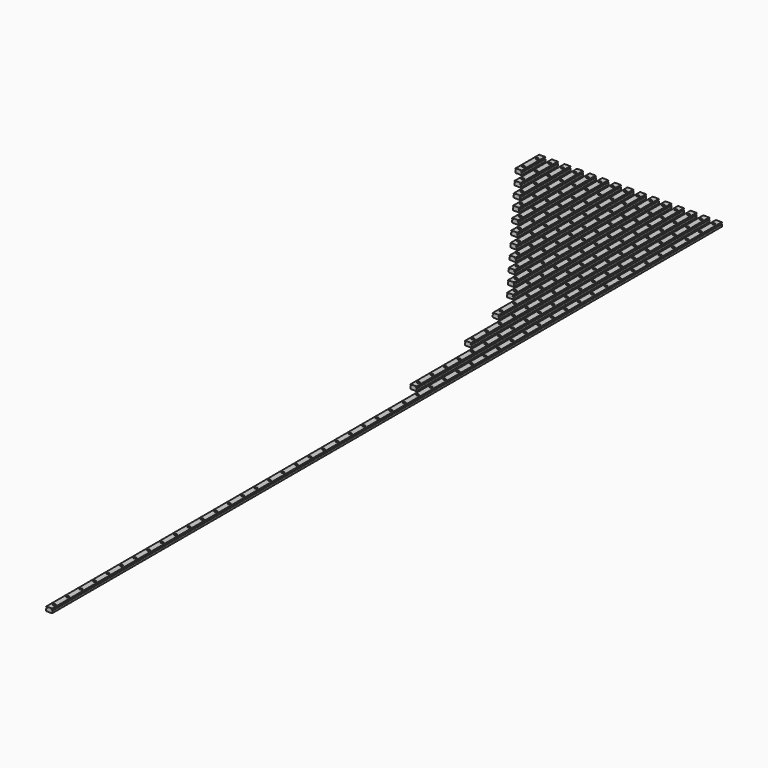
from build123d import *

# Parameters (mm, degrees)
F1_DEPTH           = 70
F2_DEPTH           = 110
F3_DEPTH           = 150
F4_DEPTH           = 190
F5_DEPTH           = 230
F6_DEPTH           = 270
F7_DEPTH           = 310
F8_DEPTH           = 350
F9_DEPTH           = 390
F10_DEPTH          = 430
F11_DEPTH          = 470
F12_DEPTH          = 550
F13_DEPTH          = 670
F14_DEPTH          = 870
F15_DEPTH          = 1990
F17_D              = 3.5
F17_CBORE_D        = 6
F17_CBORE_DEPTH    = 4.5
F17_2_D            = 3.5
F17_2_CBORE_D      = 6
F17_2_CBORE_DEPTH  = 4.5
F17_3_D            = 3.5
F17_3_CBORE_D      = 6
F17_3_CBORE_DEPTH  = 4.5
F17_4_D            = 3.5
F17_4_CBORE_D      = 6
F17_4_CBORE_DEPTH  = 4.5
F17_5_D            = 3.5
F17_5_CBORE_D      = 6
F17_5_CBORE_DEPTH  = 4.5
F17_6_D            = 3.5
F17_6_CBORE_D      = 6
F17_6_CBORE_DEPTH  = 4.5
F17_7_D            = 3.5
F17_7_CBORE_D      = 6
F17_7_CBORE_DEPTH  = 4.5
F17_8_D            = 3.5
F17_8_CBORE_D      = 6
F17_8_CBORE_DEPTH  = 4.5
F17_9_D            = 3.5
F17_9_CBORE_D      = 6
F17_9_CBORE_DEPTH  = 4.5
F17_10_D           = 3.5
F17_10_CBORE_D     = 6
F17_10_CBORE_DEPTH = 4.5
F17_11_D           = 3.5
F17_11_CBORE_D     = 6
F17_11_CBORE_DEPTH = 4.5
F18_D              = 3.5
F18_CBORE_D        = 6
F18_CBORE_DEPTH    = 4.5
F18_2_D            = 3.5
F18_2_CBORE_D      = 6
F18_2_CBORE_DEPTH  = 4.5
F18_3_D            = 3.5
F18_3_CBORE_D      = 6
F18_3_CBORE_DEPTH  = 4.5
F19_D              = 3.5
F19_CBORE_D        = 6
F19_CBORE_DEPTH    = 4.5


with BuildPart() as f1:
    # F0 (on Front) → F1 (new body)
    with BuildSketch(Plane.XZ):
        with BuildLine():
            Line((-1.510102, -5), (6.792893, -5))
            Line((6.792893, -5), (7.5, -4.292893))
            Line((7.5, -4.292893), (7.5, 0.585786))
            ThreePointArc((7.5, 0.585786), (6.978027, 0.902015), (6.625227, 1.4))
            Line((6.625227, 1.4), (5.7, 1.4))
            Line((5.7, 1.4), (5.7, 2.6))
            Line((5.7, 2.6), (6.625227, 2.6))
            ThreePointArc((6.625227, 2.6), (6.978027, 3.097985), (7.5, 3.414214))
            Line((7.5, 3.414214), (7.5, 4.505025))
            Line((7.5, 4.505025), (7.005025, 5))
            Line((7.005025, 5), (-7.005025, 5))
            Line((-7.005025, 5), (-7.5, 4.505025))
            Line((-7.5, 4.505025), (-7.5, 3.414214))
            ThreePointArc((-7.5, 3.414214), (-6.978027, 3.097985), (-6.625227, 2.6))
            Line((-6.625227, 2.6), (-5.7, 2.6))
            Line((-5.7, 2.6), (-5.7, 1.4))
            Line((-5.7, 1.4), (-6.625227, 1.4))
            ThreePointArc((-6.625227, 1.4), (-6.978027, 0.902015), (-7.5, 0.585786))
            Line((-7.5, 0.585786), (-7.5, -4.292893))
            Line((-7.5, -4.292893), (-6.792893, -5))
            Line((-6.792893, -5), (-2.489898, -5))
            ThreePointArc((-2.489898, -5), (-2, -4.7), (-1.510102, -5))
        make_face()
    extrude(amount=F1_DEPTH)

    # F17 (through all)
    with Locations(Plane.XY.offset(5)):
        with Locations((300, -15), (300, -375), (300, -175), (300, -215), (300, -335), (300, -55), (300, -95), (300, -255), (300, -455), (300, -295), (300, -415), (300, -135), (270, -95), (270, -15), (270, -215), (270, -55), (270, -375), (270, -415), (270, -295), (270, -175), (270, -135), (270, -335), (270, -255), (240, -95), (240, -55), (240, -335), (240, -215), (240, -175), (240, -375), (240, -295), (240, -15), (240, -135), (240, -255), (210, -215), (210, -335), (210, -15), (210, -175), (210, -55), (210, -295), (210, -135), (210, -255), (210, -95), (180, -135), (180, -215), (180, -175), (180, -255), (180, -295), (180, -15), (180, -55), (180, -95), (150, -215), (150, -135), (150, -175), (150, -95), (150, -255), (150, -15), (150, -55), (90, -15), (90, -55), (90, -95), (90, -135), (90, -175), (120, -55), (120, -175), (120, -95), (120, -15), (120, -215), (120, -135), (60, -95), (60, -135), (30, -95), (30, -15), (0, -15), (60, -15), (0, -55), (30, -55), (60, -55)):
            CounterBoreHole(F17_D / 2, F17_CBORE_D / 2, F17_CBORE_DEPTH)


with BuildPart() as f2:
    # F0 (on Front) → F2 (new body)
    with BuildSketch(Plane.XZ):
        with BuildLine():
            Line((37.5, 4.505025), (37.005025, 5))
            Line((37.005025, 5), (22.994975, 5))
            Line((22.994975, 5), (22.5, 4.505025))
            Line((22.5, 4.505025), (22.5, 3.414214))
            ThreePointArc((22.5, 3.414214), (23.021973, 3.097985), (23.374773, 2.6))
            Line((23.374773, 2.6), (24.3, 2.6))
            Line((24.3, 2.6), (24.3, 1.4))
            Line((24.3, 1.4), (23.374773, 1.4))
            ThreePointArc((23.374773, 1.4), (23.021973, 0.902015), (22.5, 0.585786))
            Line((22.5, 0.585786), (22.5, -4.292893))
            Line((22.5, -4.292893), (23.207107, -5))
            Line((23.207107, -5), (27.510102, -5))
            ThreePointArc((27.510102, -5), (28, -4.7), (28.489898, -5))
            Line((28.489898, -5), (36.792893, -5))
            Line((36.792893, -5), (37.5, -4.292893))
            Line((37.5, -4.292893), (37.5, 0.585786))
            ThreePointArc((37.5, 0.585786), (36.978027, 0.902015), (36.625227, 1.4))
            Line((36.625227, 1.4), (35.7, 1.4))
            Line((35.7, 1.4), (35.7, 2.6))
            Line((35.7, 2.6), (36.625227, 2.6))
            ThreePointArc((36.625227, 2.6), (36.978027, 3.097985), (37.5, 3.414214))
            Line((37.5, 3.414214), (37.5, 4.505025))
        make_face()
    extrude(amount=F2_DEPTH)

    # F17#2 (through all)
    with Locations(Plane.XY.offset(5)):
        with Locations((300, -15), (300, -375), (300, -175), (300, -215), (300, -335), (300, -55), (300, -95), (300, -255), (300, -455), (300, -295), (300, -415), (300, -135), (270, -95), (270, -15), (270, -215), (270, -55), (270, -375), (270, -415), (270, -295), (270, -175), (270, -135), (270, -335), (270, -255), (240, -95), (240, -55), (240, -335), (240, -215), (240, -175), (240, -375), (240, -295), (240, -15), (240, -135), (240, -255), (210, -215), (210, -335), (210, -15), (210, -175), (210, -55), (210, -295), (210, -135), (210, -255), (210, -95), (180, -135), (180, -215), (180, -175), (180, -255), (180, -295), (180, -15), (180, -55), (180, -95), (150, -215), (150, -135), (150, -175), (150, -95), (150, -255), (150, -15), (150, -55), (90, -15), (90, -55), (90, -95), (90, -135), (90, -175), (120, -55), (120, -175), (120, -95), (120, -15), (120, -215), (120, -135), (60, -95), (60, -135), (30, -95), (30, -15), (0, -15), (60, -15), (0, -55), (30, -55), (60, -55)):
            CounterBoreHole(F17_2_D / 2, F17_2_CBORE_D / 2, F17_2_CBORE_DEPTH)


with BuildPart() as f3:
    # F0 (on Front) → F3 (new body)
    with BuildSketch(Plane.XZ):
        with BuildLine():
            Line((67.5, 4.505025), (67.005025, 5))
            Line((67.005025, 5), (52.994975, 5))
            Line((52.994975, 5), (52.5, 4.505025))
            Line((52.5, 4.505025), (52.5, 3.414214))
            ThreePointArc((52.5, 3.414214), (53.021973, 3.097985), (53.374773, 2.6))
            Line((53.374773, 2.6), (54.3, 2.6))
            Line((54.3, 2.6), (54.3, 1.4))
            Line((54.3, 1.4), (53.374773, 1.4))
            ThreePointArc((53.374773, 1.4), (53.021973, 0.902015), (52.5, 0.585786))
            Line((52.5, 0.585786), (52.5, -4.292893))
            Line((52.5, -4.292893), (53.207107, -5))
            Line((53.207107, -5), (57.510102, -5))
            ThreePointArc((57.510102, -5), (58, -4.7), (58.489898, -5))
            Line((58.489898, -5), (66.792893, -5))
            Line((66.792893, -5), (67.5, -4.292893))
            Line((67.5, -4.292893), (67.5, 0.585786))
            ThreePointArc((67.5, 0.585786), (66.978027, 0.902015), (66.625227, 1.4))
            Line((66.625227, 1.4), (65.7, 1.4))
            Line((65.7, 1.4), (65.7, 2.6))
            Line((65.7, 2.6), (66.625227, 2.6))
            ThreePointArc((66.625227, 2.6), (66.978027, 3.097985), (67.5, 3.414214))
            Line((67.5, 3.414214), (67.5, 4.505025))
        make_face()
    extrude(amount=F3_DEPTH)

    # F17#3 (through all)
    with Locations(Plane.XY.offset(5)):
        with Locations((300, -15), (300, -375), (300, -175), (300, -215), (300, -335), (300, -55), (300, -95), (300, -255), (300, -455), (300, -295), (300, -415), (300, -135), (270, -95), (270, -15), (270, -215), (270, -55), (270, -375), (270, -415), (270, -295), (270, -175), (270, -135), (270, -335), (270, -255), (240, -95), (240, -55), (240, -335), (240, -215), (240, -175), (240, -375), (240, -295), (240, -15), (240, -135), (240, -255), (210, -215), (210, -335), (210, -15), (210, -175), (210, -55), (210, -295), (210, -135), (210, -255), (210, -95), (180, -135), (180, -215), (180, -175), (180, -255), (180, -295), (180, -15), (180, -55), (180, -95), (150, -215), (150, -135), (150, -175), (150, -95), (150, -255), (150, -15), (150, -55), (90, -15), (90, -55), (90, -95), (90, -135), (90, -175), (120, -55), (120, -175), (120, -95), (120, -15), (120, -215), (120, -135), (60, -95), (60, -135), (30, -95), (30, -15), (0, -15), (60, -15), (0, -55), (30, -55), (60, -55)):
            CounterBoreHole(F17_3_D / 2, F17_3_CBORE_D / 2, F17_3_CBORE_DEPTH)


with BuildPart() as f4:
    # F0 (on Front) → F4 (new body)
    with BuildSketch(Plane.XZ):
        with BuildLine():
            Line((97.5, 4.505025), (97.005025, 5))
            Line((97.005025, 5), (82.994975, 5))
            Line((82.994975, 5), (82.5, 4.505025))
            Line((82.5, 4.505025), (82.5, 3.414214))
            ThreePointArc((82.5, 3.414214), (83.021973, 3.097985), (83.374773, 2.6))
            Line((83.374773, 2.6), (84.3, 2.6))
            Line((84.3, 2.6), (84.3, 1.4))
            Line((84.3, 1.4), (83.374773, 1.4))
            ThreePointArc((83.374773, 1.4), (83.021973, 0.902015), (82.5, 0.585786))
            Line((82.5, 0.585786), (82.5, -4.292893))
            Line((82.5, -4.292893), (83.207107, -5))
            Line((83.207107, -5), (87.510102, -5))
            ThreePointArc((87.510102, -5), (88, -4.7), (88.489898, -5))
            Line((88.489898, -5), (96.792893, -5))
            Line((96.792893, -5), (97.5, -4.292893))
            Line((97.5, -4.292893), (97.5, 0.585786))
            ThreePointArc((97.5, 0.585786), (96.978027, 0.902015), (96.625227, 1.4))
            Line((96.625227, 1.4), (95.7, 1.4))
            Line((95.7, 1.4), (95.7, 2.6))
            Line((95.7, 2.6), (96.625227, 2.6))
            ThreePointArc((96.625227, 2.6), (96.978027, 3.097985), (97.5, 3.414214))
            Line((97.5, 3.414214), (97.5, 4.505025))
        make_face()
    extrude(amount=F4_DEPTH)

    # F17#4 (through all)
    with Locations(Plane.XY.offset(5)):
        with Locations((300, -15), (300, -375), (300, -175), (300, -215), (300, -335), (300, -55), (300, -95), (300, -255), (300, -455), (300, -295), (300, -415), (300, -135), (270, -95), (270, -15), (270, -215), (270, -55), (270, -375), (270, -415), (270, -295), (270, -175), (270, -135), (270, -335), (270, -255), (240, -95), (240, -55), (240, -335), (240, -215), (240, -175), (240, -375), (240, -295), (240, -15), (240, -135), (240, -255), (210, -215), (210, -335), (210, -15), (210, -175), (210, -55), (210, -295), (210, -135), (210, -255), (210, -95), (180, -135), (180, -215), (180, -175), (180, -255), (180, -295), (180, -15), (180, -55), (180, -95), (150, -215), (150, -135), (150, -175), (150, -95), (150, -255), (150, -15), (150, -55), (90, -15), (90, -55), (90, -95), (90, -135), (90, -175), (120, -55), (120, -175), (120, -95), (120, -15), (120, -215), (120, -135), (60, -95), (60, -135), (30, -95), (30, -15), (0, -15), (60, -15), (0, -55), (30, -55), (60, -55)):
            CounterBoreHole(F17_4_D / 2, F17_4_CBORE_D / 2, F17_4_CBORE_DEPTH)


with BuildPart() as f5:
    # F0 (on Front) → F5 (new body)
    with BuildSketch(Plane.XZ):
        with BuildLine():
            Line((127.5, 4.505025), (127.005025, 5))
            Line((127.005025, 5), (112.994975, 5))
            Line((112.994975, 5), (112.5, 4.505025))
            Line((112.5, 4.505025), (112.5, 3.414214))
            ThreePointArc((112.5, 3.414214), (113.021973, 3.097985), (113.374773, 2.6))
            Line((113.374773, 2.6), (114.3, 2.6))
            Line((114.3, 2.6), (114.3, 1.4))
            Line((114.3, 1.4), (113.374773, 1.4))
            ThreePointArc((113.374773, 1.4), (113.021973, 0.902015), (112.5, 0.585786))
            Line((112.5, 0.585786), (112.5, -4.292893))
            Line((112.5, -4.292893), (113.207107, -5))
            Line((113.207107, -5), (117.510102, -5))
            ThreePointArc((117.510102, -5), (118, -4.7), (118.489898, -5))
            Line((118.489898, -5), (126.792893, -5))
            Line((126.792893, -5), (127.5, -4.292893))
            Line((127.5, -4.292893), (127.5, 0.585786))
            ThreePointArc((127.5, 0.585786), (126.978027, 0.902015), (126.625227, 1.4))
            Line((126.625227, 1.4), (125.7, 1.4))
            Line((125.7, 1.4), (125.7, 2.6))
            Line((125.7, 2.6), (126.625227, 2.6))
            ThreePointArc((126.625227, 2.6), (126.978027, 3.097985), (127.5, 3.414214))
            Line((127.5, 3.414214), (127.5, 4.505025))
        make_face()
    extrude(amount=F5_DEPTH)

    # F17#5 (through all)
    with Locations(Plane.XY.offset(5)):
        with Locations((300, -15), (300, -375), (300, -175), (300, -215), (300, -335), (300, -55), (300, -95), (300, -255), (300, -455), (300, -295), (300, -415), (300, -135), (270, -95), (270, -15), (270, -215), (270, -55), (270, -375), (270, -415), (270, -295), (270, -175), (270, -135), (270, -335), (270, -255), (240, -95), (240, -55), (240, -335), (240, -215), (240, -175), (240, -375), (240, -295), (240, -15), (240, -135), (240, -255), (210, -215), (210, -335), (210, -15), (210, -175), (210, -55), (210, -295), (210, -135), (210, -255), (210, -95), (180, -135), (180, -215), (180, -175), (180, -255), (180, -295), (180, -15), (180, -55), (180, -95), (150, -215), (150, -135), (150, -175), (150, -95), (150, -255), (150, -15), (150, -55), (90, -15), (90, -55), (90, -95), (90, -135), (90, -175), (120, -55), (120, -175), (120, -95), (120, -15), (120, -215), (120, -135), (60, -95), (60, -135), (30, -95), (30, -15), (0, -15), (60, -15), (0, -55), (30, -55), (60, -55)):
            CounterBoreHole(F17_5_D / 2, F17_5_CBORE_D / 2, F17_5_CBORE_DEPTH)


with BuildPart() as f6:
    # F0 (on Front) → F6 (new body)
    with BuildSketch(Plane.XZ):
        with BuildLine():
            Line((157.5, 4.505025), (157.005025, 5))
            Line((157.005025, 5), (142.994975, 5))
            Line((142.994975, 5), (142.5, 4.505025))
            Line((142.5, 4.505025), (142.5, 3.414214))
            ThreePointArc((142.5, 3.414214), (143.021973, 3.097985), (143.374773, 2.6))
            Line((143.374773, 2.6), (144.3, 2.6))
            Line((144.3, 2.6), (144.3, 1.4))
            Line((144.3, 1.4), (143.374773, 1.4))
            ThreePointArc((143.374773, 1.4), (143.021973, 0.902015), (142.5, 0.585786))
            Line((142.5, 0.585786), (142.5, -4.292893))
            Line((142.5, -4.292893), (143.207107, -5))
            Line((143.207107, -5), (147.510102, -5))
            ThreePointArc((147.510102, -5), (148, -4.7), (148.489898, -5))
            Line((148.489898, -5), (156.792893, -5))
            Line((156.792893, -5), (157.5, -4.292893))
            Line((157.5, -4.292893), (157.5, 0.585786))
            ThreePointArc((157.5, 0.585786), (156.978027, 0.902015), (156.625227, 1.4))
            Line((156.625227, 1.4), (155.7, 1.4))
            Line((155.7, 1.4), (155.7, 2.6))
            Line((155.7, 2.6), (156.625227, 2.6))
            ThreePointArc((156.625227, 2.6), (156.978027, 3.097985), (157.5, 3.414214))
            Line((157.5, 3.414214), (157.5, 4.505025))
        make_face()
    extrude(amount=F6_DEPTH)

    # F17#6 (through all)
    with Locations(Plane.XY.offset(5)):
        with Locations((300, -15), (300, -375), (300, -175), (300, -215), (300, -335), (300, -55), (300, -95), (300, -255), (300, -455), (300, -295), (300, -415), (300, -135), (270, -95), (270, -15), (270, -215), (270, -55), (270, -375), (270, -415), (270, -295), (270, -175), (270, -135), (270, -335), (270, -255), (240, -95), (240, -55), (240, -335), (240, -215), (240, -175), (240, -375), (240, -295), (240, -15), (240, -135), (240, -255), (210, -215), (210, -335), (210, -15), (210, -175), (210, -55), (210, -295), (210, -135), (210, -255), (210, -95), (180, -135), (180, -215), (180, -175), (180, -255), (180, -295), (180, -15), (180, -55), (180, -95), (150, -215), (150, -135), (150, -175), (150, -95), (150, -255), (150, -15), (150, -55), (90, -15), (90, -55), (90, -95), (90, -135), (90, -175), (120, -55), (120, -175), (120, -95), (120, -15), (120, -215), (120, -135), (60, -95), (60, -135), (30, -95), (30, -15), (0, -15), (60, -15), (0, -55), (30, -55), (60, -55)):
            CounterBoreHole(F17_6_D / 2, F17_6_CBORE_D / 2, F17_6_CBORE_DEPTH)


with BuildPart() as f7:
    # F0 (on Front) → F7 (new body)
    with BuildSketch(Plane.XZ):
        with BuildLine():
            Line((187.5, 4.505025), (187.005025, 5))
            Line((187.005025, 5), (172.994975, 5))
            Line((172.994975, 5), (172.5, 4.505025))
            Line((172.5, 4.505025), (172.5, 3.414214))
            ThreePointArc((172.5, 3.414214), (173.021973, 3.097985), (173.374773, 2.6))
            Line((173.374773, 2.6), (174.3, 2.6))
            Line((174.3, 2.6), (174.3, 1.4))
            Line((174.3, 1.4), (173.374773, 1.4))
            ThreePointArc((173.374773, 1.4), (173.021973, 0.902015), (172.5, 0.585786))
            Line((172.5, 0.585786), (172.5, -4.292893))
            Line((172.5, -4.292893), (173.207107, -5))
            Line((173.207107, -5), (177.510102, -5))
            ThreePointArc((177.510102, -5), (178, -4.7), (178.489898, -5))
            Line((178.489898, -5), (186.792893, -5))
            Line((186.792893, -5), (187.5, -4.292893))
            Line((187.5, -4.292893), (187.5, 0.585786))
            ThreePointArc((187.5, 0.585786), (186.978027, 0.902015), (186.625227, 1.4))
            Line((186.625227, 1.4), (185.7, 1.4))
            Line((185.7, 1.4), (185.7, 2.6))
            Line((185.7, 2.6), (186.625227, 2.6))
            ThreePointArc((186.625227, 2.6), (186.978027, 3.097985), (187.5, 3.414214))
            Line((187.5, 3.414214), (187.5, 4.505025))
        make_face()
    extrude(amount=F7_DEPTH)

    # F17#7 (through all)
    with Locations(Plane.XY.offset(5)):
        with Locations((300, -15), (300, -375), (300, -175), (300, -215), (300, -335), (300, -55), (300, -95), (300, -255), (300, -455), (300, -295), (300, -415), (300, -135), (270, -95), (270, -15), (270, -215), (270, -55), (270, -375), (270, -415), (270, -295), (270, -175), (270, -135), (270, -335), (270, -255), (240, -95), (240, -55), (240, -335), (240, -215), (240, -175), (240, -375), (240, -295), (240, -15), (240, -135), (240, -255), (210, -215), (210, -335), (210, -15), (210, -175), (210, -55), (210, -295), (210, -135), (210, -255), (210, -95), (180, -135), (180, -215), (180, -175), (180, -255), (180, -295), (180, -15), (180, -55), (180, -95), (150, -215), (150, -135), (150, -175), (150, -95), (150, -255), (150, -15), (150, -55), (90, -15), (90, -55), (90, -95), (90, -135), (90, -175), (120, -55), (120, -175), (120, -95), (120, -15), (120, -215), (120, -135), (60, -95), (60, -135), (30, -95), (30, -15), (0, -15), (60, -15), (0, -55), (30, -55), (60, -55)):
            CounterBoreHole(F17_7_D / 2, F17_7_CBORE_D / 2, F17_7_CBORE_DEPTH)


with BuildPart() as f8:
    # F0 (on Front) → F8 (new body)
    with BuildSketch(Plane.XZ):
        with BuildLine():
            Line((217.5, 4.505025), (217.005025, 5))
            Line((217.005025, 5), (202.994975, 5))
            Line((202.994975, 5), (202.5, 4.505025))
            Line((202.5, 4.505025), (202.5, 3.414214))
            ThreePointArc((202.5, 3.414214), (203.021973, 3.097985), (203.374773, 2.6))
            Line((203.374773, 2.6), (204.3, 2.6))
            Line((204.3, 2.6), (204.3, 1.4))
            Line((204.3, 1.4), (203.374773, 1.4))
            ThreePointArc((203.374773, 1.4), (203.021973, 0.902015), (202.5, 0.585786))
            Line((202.5, 0.585786), (202.5, -4.292893))
            Line((202.5, -4.292893), (203.207107, -5))
            Line((203.207107, -5), (207.510102, -5))
            ThreePointArc((207.510102, -5), (208, -4.7), (208.489898, -5))
            Line((208.489898, -5), (216.792893, -5))
            Line((216.792893, -5), (217.5, -4.292893))
            Line((217.5, -4.292893), (217.5, 0.585786))
            ThreePointArc((217.5, 0.585786), (216.978027, 0.902015), (216.625227, 1.4))
            Line((216.625227, 1.4), (215.7, 1.4))
            Line((215.7, 1.4), (215.7, 2.6))
            Line((215.7, 2.6), (216.625227, 2.6))
            ThreePointArc((216.625227, 2.6), (216.978027, 3.097985), (217.5, 3.414214))
            Line((217.5, 3.414214), (217.5, 4.505025))
        make_face()
    extrude(amount=F8_DEPTH)

    # F17#8 (through all)
    with Locations(Plane.XY.offset(5)):
        with Locations((300, -15), (300, -375), (300, -175), (300, -215), (300, -335), (300, -55), (300, -95), (300, -255), (300, -455), (300, -295), (300, -415), (300, -135), (270, -95), (270, -15), (270, -215), (270, -55), (270, -375), (270, -415), (270, -295), (270, -175), (270, -135), (270, -335), (270, -255), (240, -95), (240, -55), (240, -335), (240, -215), (240, -175), (240, -375), (240, -295), (240, -15), (240, -135), (240, -255), (210, -215), (210, -335), (210, -15), (210, -175), (210, -55), (210, -295), (210, -135), (210, -255), (210, -95), (180, -135), (180, -215), (180, -175), (180, -255), (180, -295), (180, -15), (180, -55), (180, -95), (150, -215), (150, -135), (150, -175), (150, -95), (150, -255), (150, -15), (150, -55), (90, -15), (90, -55), (90, -95), (90, -135), (90, -175), (120, -55), (120, -175), (120, -95), (120, -15), (120, -215), (120, -135), (60, -95), (60, -135), (30, -95), (30, -15), (0, -15), (60, -15), (0, -55), (30, -55), (60, -55)):
            CounterBoreHole(F17_8_D / 2, F17_8_CBORE_D / 2, F17_8_CBORE_DEPTH)


with BuildPart() as f9:
    # F0 (on Front) → F9 (new body)
    with BuildSketch(Plane.XZ):
        with BuildLine():
            Line((247.5, 4.505025), (247.005025, 5))
            Line((247.005025, 5), (232.994975, 5))
            Line((232.994975, 5), (232.5, 4.505025))
            Line((232.5, 4.505025), (232.5, 3.414214))
            ThreePointArc((232.5, 3.414214), (233.021973, 3.097985), (233.374773, 2.6))
            Line((233.374773, 2.6), (234.3, 2.6))
            Line((234.3, 2.6), (234.3, 1.4))
            Line((234.3, 1.4), (233.374773, 1.4))
            ThreePointArc((233.374773, 1.4), (233.021973, 0.902015), (232.5, 0.585786))
            Line((232.5, 0.585786), (232.5, -4.292893))
            Line((232.5, -4.292893), (233.207107, -5))
            Line((233.207107, -5), (237.510102, -5))
            ThreePointArc((237.510102, -5), (238, -4.7), (238.489898, -5))
            Line((238.489898, -5), (246.792893, -5))
            Line((246.792893, -5), (247.5, -4.292893))
            Line((247.5, -4.292893), (247.5, 0.585786))
            ThreePointArc((247.5, 0.585786), (246.978027, 0.902015), (246.625227, 1.4))
            Line((246.625227, 1.4), (245.7, 1.4))
            Line((245.7, 1.4), (245.7, 2.6))
            Line((245.7, 2.6), (246.625227, 2.6))
            ThreePointArc((246.625227, 2.6), (246.978027, 3.097985), (247.5, 3.414214))
            Line((247.5, 3.414214), (247.5, 4.505025))
        make_face()
    extrude(amount=F9_DEPTH)

    # F17#9 (through all)
    with Locations(Plane.XY.offset(5)):
        with Locations((300, -15), (300, -375), (300, -175), (300, -215), (300, -335), (300, -55), (300, -95), (300, -255), (300, -455), (300, -295), (300, -415), (300, -135), (270, -95), (270, -15), (270, -215), (270, -55), (270, -375), (270, -415), (270, -295), (270, -175), (270, -135), (270, -335), (270, -255), (240, -95), (240, -55), (240, -335), (240, -215), (240, -175), (240, -375), (240, -295), (240, -15), (240, -135), (240, -255), (210, -215), (210, -335), (210, -15), (210, -175), (210, -55), (210, -295), (210, -135), (210, -255), (210, -95), (180, -135), (180, -215), (180, -175), (180, -255), (180, -295), (180, -15), (180, -55), (180, -95), (150, -215), (150, -135), (150, -175), (150, -95), (150, -255), (150, -15), (150, -55), (90, -15), (90, -55), (90, -95), (90, -135), (90, -175), (120, -55), (120, -175), (120, -95), (120, -15), (120, -215), (120, -135), (60, -95), (60, -135), (30, -95), (30, -15), (0, -15), (60, -15), (0, -55), (30, -55), (60, -55)):
            CounterBoreHole(F17_9_D / 2, F17_9_CBORE_D / 2, F17_9_CBORE_DEPTH)


with BuildPart() as f10:
    # F0 (on Front) → F10 (new body)
    with BuildSketch(Plane.XZ):
        with BuildLine():
            Line((277.5, 4.505025), (277.005025, 5))
            Line((277.005025, 5), (262.994975, 5))
            Line((262.994975, 5), (262.5, 4.505025))
            Line((262.5, 4.505025), (262.5, 3.414214))
            ThreePointArc((262.5, 3.414214), (263.021973, 3.097985), (263.374773, 2.6))
            Line((263.374773, 2.6), (264.3, 2.6))
            Line((264.3, 2.6), (264.3, 1.4))
            Line((264.3, 1.4), (263.374773, 1.4))
            ThreePointArc((263.374773, 1.4), (263.021973, 0.902015), (262.5, 0.585786))
            Line((262.5, 0.585786), (262.5, -4.292893))
            Line((262.5, -4.292893), (263.207107, -5))
            Line((263.207107, -5), (267.510102, -5))
            ThreePointArc((267.510102, -5), (268, -4.7), (268.489898, -5))
            Line((268.489898, -5), (276.792893, -5))
            Line((276.792893, -5), (277.5, -4.292893))
            Line((277.5, -4.292893), (277.5, 0.585786))
            ThreePointArc((277.5, 0.585786), (276.978027, 0.902015), (276.625227, 1.4))
            Line((276.625227, 1.4), (275.7, 1.4))
            Line((275.7, 1.4), (275.7, 2.6))
            Line((275.7, 2.6), (276.625227, 2.6))
            ThreePointArc((276.625227, 2.6), (276.978027, 3.097985), (277.5, 3.414214))
            Line((277.5, 3.414214), (277.5, 4.505025))
        make_face()
    extrude(amount=F10_DEPTH)

    # F17#10 (through all)
    with Locations(Plane.XY.offset(5)):
        with Locations((300, -15), (300, -375), (300, -175), (300, -215), (300, -335), (300, -55), (300, -95), (300, -255), (300, -455), (300, -295), (300, -415), (300, -135), (270, -95), (270, -15), (270, -215), (270, -55), (270, -375), (270, -415), (270, -295), (270, -175), (270, -135), (270, -335), (270, -255), (240, -95), (240, -55), (240, -335), (240, -215), (240, -175), (240, -375), (240, -295), (240, -15), (240, -135), (240, -255), (210, -215), (210, -335), (210, -15), (210, -175), (210, -55), (210, -295), (210, -135), (210, -255), (210, -95), (180, -135), (180, -215), (180, -175), (180, -255), (180, -295), (180, -15), (180, -55), (180, -95), (150, -215), (150, -135), (150, -175), (150, -95), (150, -255), (150, -15), (150, -55), (90, -15), (90, -55), (90, -95), (90, -135), (90, -175), (120, -55), (120, -175), (120, -95), (120, -15), (120, -215), (120, -135), (60, -95), (60, -135), (30, -95), (30, -15), (0, -15), (60, -15), (0, -55), (30, -55), (60, -55)):
            CounterBoreHole(F17_10_D / 2, F17_10_CBORE_D / 2, F17_10_CBORE_DEPTH)


with BuildPart() as f11:
    # F0 (on Front) → F11 (new body)
    with BuildSketch(Plane.XZ):
        with BuildLine():
            Line((307.5, 4.505025), (307.005025, 5))
            Line((307.005025, 5), (292.994975, 5))
            Line((292.994975, 5), (292.5, 4.505025))
            Line((292.5, 4.505025), (292.5, 3.414214))
            ThreePointArc((292.5, 3.414214), (293.021973, 3.097985), (293.374773, 2.6))
            Line((293.374773, 2.6), (294.3, 2.6))
            Line((294.3, 2.6), (294.3, 1.4))
            Line((294.3, 1.4), (293.374773, 1.4))
            ThreePointArc((293.374773, 1.4), (293.021973, 0.902015), (292.5, 0.585786))
            Line((292.5, 0.585786), (292.5, -4.292893))
            Line((292.5, -4.292893), (293.207107, -5))
            Line((293.207107, -5), (297.510102, -5))
            ThreePointArc((297.510102, -5), (298, -4.7), (298.489898, -5))
            Line((298.489898, -5), (306.792893, -5))
            Line((306.792893, -5), (307.5, -4.292893))
            Line((307.5, -4.292893), (307.5, 0.585786))
            ThreePointArc((307.5, 0.585786), (306.978027, 0.902015), (306.625227, 1.4))
            Line((306.625227, 1.4), (305.7, 1.4))
            Line((305.7, 1.4), (305.7, 2.6))
            Line((305.7, 2.6), (306.625227, 2.6))
            ThreePointArc((306.625227, 2.6), (306.978027, 3.097985), (307.5, 3.414214))
            Line((307.5, 3.414214), (307.5, 4.505025))
        make_face()
    extrude(amount=F11_DEPTH)

    # F17#11 (through all)
    with Locations(Plane.XY.offset(5)):
        with Locations((300, -15), (300, -375), (300, -175), (300, -215), (300, -335), (300, -55), (300, -95), (300, -255), (300, -455), (300, -295), (300, -415), (300, -135), (270, -95), (270, -15), (270, -215), (270, -55), (270, -375), (270, -415), (270, -295), (270, -175), (270, -135), (270, -335), (270, -255), (240, -95), (240, -55), (240, -335), (240, -215), (240, -175), (240, -375), (240, -295), (240, -15), (240, -135), (240, -255), (210, -215), (210, -335), (210, -15), (210, -175), (210, -55), (210, -295), (210, -135), (210, -255), (210, -95), (180, -135), (180, -215), (180, -175), (180, -255), (180, -295), (180, -15), (180, -55), (180, -95), (150, -215), (150, -135), (150, -175), (150, -95), (150, -255), (150, -15), (150, -55), (90, -15), (90, -55), (90, -95), (90, -135), (90, -175), (120, -55), (120, -175), (120, -95), (120, -15), (120, -215), (120, -135), (60, -95), (60, -135), (30, -95), (30, -15), (0, -15), (60, -15), (0, -55), (30, -55), (60, -55)):
            CounterBoreHole(F17_11_D / 2, F17_11_CBORE_D / 2, F17_11_CBORE_DEPTH)


with BuildPart() as f12:
    # F0 (on Front) → F12 (new body)
    with BuildSketch(Plane.XZ):
        with BuildLine():
            Line((337.5, 4.505025), (337.005025, 5))
            Line((337.005025, 5), (322.994975, 5))
            Line((322.994975, 5), (322.5, 4.505025))
            Line((322.5, 4.505025), (322.5, 3.414214))
            ThreePointArc((322.5, 3.414214), (323.021973, 3.097985), (323.374773, 2.6))
            Line((323.374773, 2.6), (324.3, 2.6))
            Line((324.3, 2.6), (324.3, 1.4))
            Line((324.3, 1.4), (323.374773, 1.4))
            ThreePointArc((323.374773, 1.4), (323.021973, 0.902015), (322.5, 0.585786))
            Line((322.5, 0.585786), (322.5, -4.292893))
            Line((322.5, -4.292893), (323.207107, -5))
            Line((323.207107, -5), (327.510102, -5))
            ThreePointArc((327.510102, -5), (328, -4.7), (328.489898, -5))
            Line((328.489898, -5), (336.792893, -5))
            Line((336.792893, -5), (337.5, -4.292893))
            Line((337.5, -4.292893), (337.5, 0.585786))
            ThreePointArc((337.5, 0.585786), (336.978027, 0.902015), (336.625227, 1.4))
            Line((336.625227, 1.4), (335.7, 1.4))
            Line((335.7, 1.4), (335.7, 2.6))
            Line((335.7, 2.6), (336.625227, 2.6))
            ThreePointArc((336.625227, 2.6), (336.978027, 3.097985), (337.5, 3.414214))
            Line((337.5, 3.414214), (337.5, 4.505025))
        make_face()
    extrude(amount=F12_DEPTH)

    # F18 (through all)
    with Locations(Plane.XY.offset(5)):
        with Locations((330, -255), (330, -55), (330, -335), (330, -215), (330, -535), (330, -375), (330, -495), (330, -175), (330, -135), (330, -295), (330, -15), (330, -95), (330, -455), (330, -415), (360, -575), (360, -655), (360, -495), (360, -255), (360, -335), (360, -455), (360, -615), (360, -415), (360, -535), (360, -175), (360, -95), (360, -55), (360, -375), (360, -135), (360, -295), (360, -15), (360, -215), (390, -535), (390, -375), (390, -135), (390, -455), (390, -215), (390, -15), (390, -295), (390, -495), (390, -655), (390, -335), (390, -615), (390, -95), (390, -55), (390, -175), (390, -575), (390, -255), (390, -415), (390, -815), (390, -855), (390, -695), (390, -735), (390, -775)):
            CounterBoreHole(F18_D / 2, F18_CBORE_D / 2, F18_CBORE_DEPTH)


with BuildPart() as f13:
    # F0 (on Front) → F13 (new body)
    with BuildSketch(Plane.XZ):
        with BuildLine():
            Line((367.5, 4.505025), (367.005025, 5))
            Line((367.005025, 5), (352.994975, 5))
            Line((352.994975, 5), (352.5, 4.505025))
            Line((352.5, 4.505025), (352.5, 3.414214))
            ThreePointArc((352.5, 3.414214), (353.021973, 3.097985), (353.374773, 2.6))
            Line((353.374773, 2.6), (354.3, 2.6))
            Line((354.3, 2.6), (354.3, 1.4))
            Line((354.3, 1.4), (353.374773, 1.4))
            ThreePointArc((353.374773, 1.4), (353.021973, 0.902015), (352.5, 0.585786))
            Line((352.5, 0.585786), (352.5, -4.292893))
            Line((352.5, -4.292893), (353.207107, -5))
            Line((353.207107, -5), (357.510102, -5))
            ThreePointArc((357.510102, -5), (358, -4.7), (358.489898, -5))
            Line((358.489898, -5), (366.792893, -5))
            Line((366.792893, -5), (367.5, -4.292893))
            Line((367.5, -4.292893), (367.5, 0.585786))
            ThreePointArc((367.5, 0.585786), (366.978027, 0.902015), (366.625227, 1.4))
            Line((366.625227, 1.4), (365.7, 1.4))
            Line((365.7, 1.4), (365.7, 2.6))
            Line((365.7, 2.6), (366.625227, 2.6))
            ThreePointArc((366.625227, 2.6), (366.978027, 3.097985), (367.5, 3.414214))
            Line((367.5, 3.414214), (367.5, 4.505025))
        make_face()
    extrude(amount=F13_DEPTH)

    # F18#2 (through all)
    with Locations(Plane.XY.offset(5)):
        with Locations((330, -255), (330, -55), (330, -335), (330, -215), (330, -535), (330, -375), (330, -495), (330, -175), (330, -135), (330, -295), (330, -15), (330, -95), (330, -455), (330, -415), (360, -575), (360, -655), (360, -495), (360, -255), (360, -335), (360, -455), (360, -615), (360, -415), (360, -535), (360, -175), (360, -95), (360, -55), (360, -375), (360, -135), (360, -295), (360, -15), (360, -215), (390, -535), (390, -375), (390, -135), (390, -455), (390, -215), (390, -15), (390, -295), (390, -495), (390, -655), (390, -335), (390, -615), (390, -95), (390, -55), (390, -175), (390, -575), (390, -255), (390, -415), (390, -815), (390, -855), (390, -695), (390, -735), (390, -775)):
            CounterBoreHole(F18_2_D / 2, F18_2_CBORE_D / 2, F18_2_CBORE_DEPTH)


with BuildPart() as f14:
    # F0 (on Front) → F14 (new body)
    with BuildSketch(Plane.XZ):
        with BuildLine():
            Line((397.5, 4.505025), (397.005025, 5))
            Line((397.005025, 5), (382.994975, 5))
            Line((382.994975, 5), (382.5, 4.505025))
            Line((382.5, 4.505025), (382.5, 3.414214))
            ThreePointArc((382.5, 3.414214), (383.021973, 3.097985), (383.374773, 2.6))
            Line((383.374773, 2.6), (384.3, 2.6))
            Line((384.3, 2.6), (384.3, 1.4))
            Line((384.3, 1.4), (383.374773, 1.4))
            ThreePointArc((383.374773, 1.4), (383.021973, 0.902015), (382.5, 0.585786))
            Line((382.5, 0.585786), (382.5, -4.292893))
            Line((382.5, -4.292893), (383.207107, -5))
            Line((383.207107, -5), (387.510102, -5))
            ThreePointArc((387.510102, -5), (388, -4.7), (388.489898, -5))
            Line((388.489898, -5), (396.792893, -5))
            Line((396.792893, -5), (397.5, -4.292893))
            Line((397.5, -4.292893), (397.5, 0.585786))
            ThreePointArc((397.5, 0.585786), (396.978027, 0.902015), (396.625227, 1.4))
            Line((396.625227, 1.4), (395.7, 1.4))
            Line((395.7, 1.4), (395.7, 2.6))
            Line((395.7, 2.6), (396.625227, 2.6))
            ThreePointArc((396.625227, 2.6), (396.978027, 3.097985), (397.5, 3.414214))
            Line((397.5, 3.414214), (397.5, 4.505025))
        make_face()
    extrude(amount=F14_DEPTH)

    # F18#3 (through all)
    with Locations(Plane.XY.offset(5)):
        with Locations((330, -255), (330, -55), (330, -335), (330, -215), (330, -535), (330, -375), (330, -495), (330, -175), (330, -135), (330, -295), (330, -15), (330, -95), (330, -455), (330, -415), (360, -575), (360, -655), (360, -495), (360, -255), (360, -335), (360, -455), (360, -615), (360, -415), (360, -535), (360, -175), (360, -95), (360, -55), (360, -375), (360, -135), (360, -295), (360, -15), (360, -215), (390, -535), (390, -375), (390, -135), (390, -455), (390, -215), (390, -15), (390, -295), (390, -495), (390, -655), (390, -335), (390, -615), (390, -95), (390, -55), (390, -175), (390, -575), (390, -255), (390, -415), (390, -815), (390, -855), (390, -695), (390, -735), (390, -775)):
            CounterBoreHole(F18_3_D / 2, F18_3_CBORE_D / 2, F18_3_CBORE_DEPTH)


with BuildPart() as f15:
    # F0 (on Front) → F15 (new body)
    with BuildSketch(Plane.XZ):
        with BuildLine():
            Line((427.5, 4.505025), (427.005025, 5))
            Line((427.005025, 5), (412.994975, 5))
            Line((412.994975, 5), (412.5, 4.505025))
            Line((412.5, 4.505025), (412.5, 3.414214))
            ThreePointArc((412.5, 3.414214), (413.021973, 3.097985), (413.374773, 2.6))
            Line((413.374773, 2.6), (414.3, 2.6))
            Line((414.3, 2.6), (414.3, 1.4))
            Line((414.3, 1.4), (413.374773, 1.4))
            ThreePointArc((413.374773, 1.4), (413.021973, 0.902015), (412.5, 0.585786))
            Line((412.5, 0.585786), (412.5, -4.292893))
            Line((412.5, -4.292893), (413.207107, -5))
            Line((413.207107, -5), (417.510102, -5))
            ThreePointArc((417.510102, -5), (418, -4.7), (418.489898, -5))
            Line((418.489898, -5), (426.792893, -5))
            Line((426.792893, -5), (427.5, -4.292893))
            Line((427.5, -4.292893), (427.5, 0.585786))
            ThreePointArc((427.5, 0.585786), (426.978027, 0.902015), (426.625227, 1.4))
            Line((426.625227, 1.4), (425.7, 1.4))
            Line((425.7, 1.4), (425.7, 2.6))
            Line((425.7, 2.6), (426.625227, 2.6))
            ThreePointArc((426.625227, 2.6), (426.978027, 3.097985), (427.5, 3.414214))
            Line((427.5, 3.414214), (427.5, 4.505025))
        make_face()
    extrude(amount=F15_DEPTH)

    # F19 (through all)
    with Locations(Plane.XY.offset(5)):
        with Locations((420, -1895), (420, -1575), (420, -1335), (420, -1735), (420, -1455), (420, -1415), (420, -1135), (420, -1775), (420, -1615), (420, -1255), (420, -1815), (420, -1215), (420, -1535), (420, -1855), (420, -1375), (420, -1695), (420, -1655), (420, -1095), (420, -1495), (420, -1175), (420, -1975), (420, -1295), (420, -1935), (420, -1055), (420, -415), (420, -15), (420, -1015), (420, -255), (420, -375), (420, -535), (420, -215), (420, -695), (420, -55), (420, -175), (420, -495), (420, -975), (420, -655), (420, -335), (420, -95), (420, -735), (420, -855), (420, -775), (420, -935), (420, -295), (420, -135), (420, -615), (420, -815), (420, -455), (420, -895), (420, -575)):
            CounterBoreHole(F19_D / 2, F19_CBORE_D / 2, F19_CBORE_DEPTH)


solid = Compound([f1.part, f2.part, f3.part, f4.part, f5.part, f6.part, f7.part, f8.part, f9.part, f10.part, f11.part, f12.part, f13.part, f14.part, f15.part])
